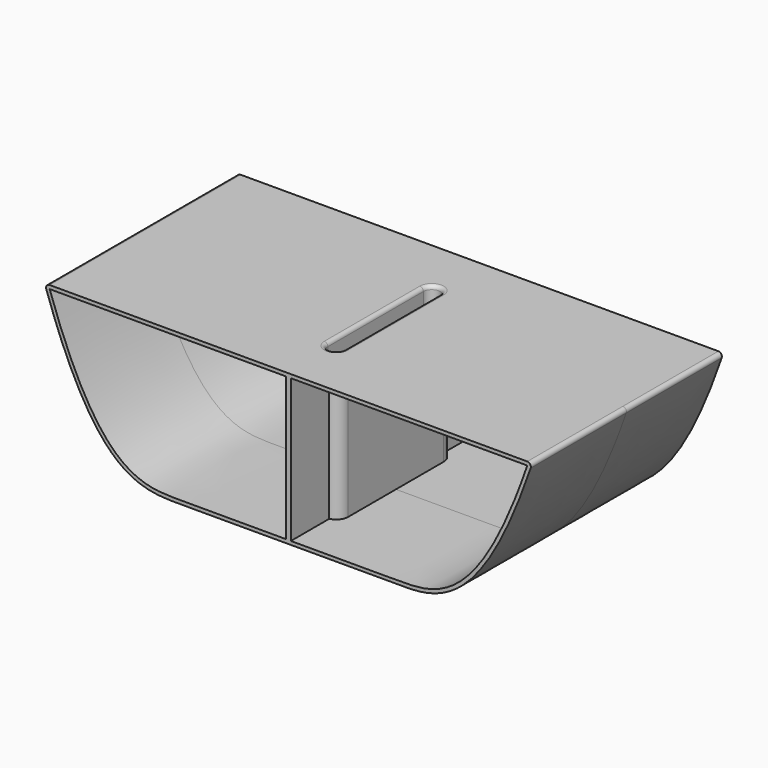
from build123d import *

# Parameters (mm, degrees)
PAD001_DEPTH = 100
PAD_DEPTH    = 50
THICKNESS_T  = 1.5
SKETCH_W     = 2
SKETCH_H     = 20
PAD002_DEPTH = 60


with BuildPart() as keel_slot:
    # Sketch002 → Pad001 (new body)
    with BuildSketch(Plane.XY):
        with BuildLine():
            ThreePointArc((5, 25), (0, 30), (-5, 25))
            Line((-5, 25), (-5, -25))
            ThreePointArc((-5, -25), (0, -30), (5, -25))
            Line((5, 25), (5, -25))
        make_face()
    extrude(amount=-PAD001_DEPTH)


with BuildPart() as hull:
    # Sketch003 → Pad (new body, symmetric)
    with BuildSketch(Plane.XZ):
        with BuildLine():
            Line((-100, 0), (100, 0))
            add(Edge.make_bspline(
                [(-100, 0), (-79.318541, -60), (-44.357747, -60), (0, -60), (44.357747, -60), (79.318541, -60), (100, 0)],
                knots=[0, 0, 0, 0, 0.25, 0.5, 0.75, 1, 1, 1, 1], degree=3))
        make_face()
    extrude(amount=PAD_DEPTH, both=True)

    # Boolean: cut Keel Slot
    add(keel_slot.part, mode=Mode.SUBTRACT)

    # Thickness
    thickness_openings = [hull.faces().sort_by_distance(p)[0] for p in [
        (0, -50, -27.855645),
        (0, 50, -27.855645),
    ]]
    offset(amount=THICKNESS_T, openings=thickness_openings)

    # Sketch (on Face1 of Thickness) → Pad002 (join)
    with BuildSketch(Plane(origin=(0, 0, 0), x_dir=(1, 0, 0), z_dir=(0, 0, -1))):
        with Locations((0, 40)):
            Rectangle(SKETCH_W, SKETCH_H)
        with Locations((0, -40)):
            Rectangle(SKETCH_W, SKETCH_H)
    extrude(amount=PAD002_DEPTH)


solid = hull.part
